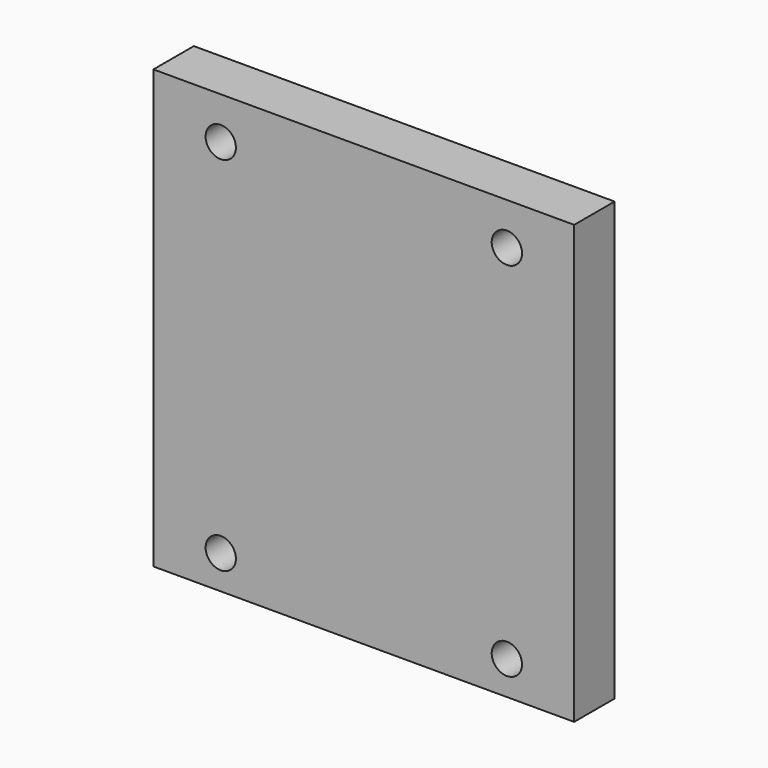
from build123d import *

# Parameters (mm, degrees)
CYLINDER107_R          = 1.8
CYLINDER107_DEPTH      = 34
CYLINDER107_ROLL_ANGLE = 90
CYLINDER106_R          = 1.8
CYLINDER106_DEPTH      = 34
CYLINDER106_ROLL_ANGLE = 90
CYLINDER109_R          = 1.8
CYLINDER109_DEPTH      = 34
CYLINDER109_ROLL_ANGLE = 90
CYLINDER108_R          = 1.8
CYLINDER108_DEPTH      = 34
CYLINDER108_ROLL_ANGLE = 90
BOX054_W               = 50
BOX054_H               = 6
BOX054_DEPTH           = 52


with BuildPart() as cilindro063:
    # Cylinder107 → Cylinder107 (new body)
    with BuildSketch(Plane.XY):
        Circle(CYLINDER107_R)
    extrude(amount=CYLINDER107_DEPTH)


with BuildPart() as cilindro063_1:
    # Cylinder107 roll: moved
    add(cilindro063.part.rotate(Axis((0, 0, 0), (1, 0, 0)), CYLINDER107_ROLL_ANGLE))


with BuildPart() as cilindro063_2:
    # Cylinder107 placement: moved
    add(cilindro063_1.part.moved(Location((16, -10, 63))))


with BuildPart() as fusion059:
    # Cylinder106 → Cylinder106 (new body)
    with BuildSketch(Plane.XY):
        Circle(CYLINDER106_R)
    extrude(amount=CYLINDER106_DEPTH)


with BuildPart() as fusion059_1:
    # Cylinder106 roll: moved
    add(fusion059.part.rotate(Axis((0, 0, 0), (1, 0, 0)), CYLINDER106_ROLL_ANGLE))


with BuildPart() as fusion059_2:
    # Cylinder106 placement: moved
    add(fusion059_1.part.moved(Location((50, -10, 63))))

    # Fusion059: union Cilindro063
    add(cilindro063_2.part)


with BuildPart() as cilindro065:
    # Cylinder109 → Cylinder109 (new body)
    with BuildSketch(Plane.XY):
        Circle(CYLINDER109_R)
    extrude(amount=CYLINDER109_DEPTH)


with BuildPart() as cilindro065_1:
    # Cylinder109 roll: moved
    add(cilindro065.part.rotate(Axis((0, 0, 0), (1, 0, 0)), CYLINDER109_ROLL_ANGLE))


with BuildPart() as cilindro065_2:
    # Cylinder109 placement: moved
    add(cilindro065_1.part.moved(Location((16, -10, 63))))


with BuildPart() as fusion061:
    # Cylinder108 → Cylinder108 (new body)
    with BuildSketch(Plane.XY):
        Circle(CYLINDER108_R)
    extrude(amount=CYLINDER108_DEPTH)


with BuildPart() as fusion061_1:
    # Cylinder108 roll: moved
    add(fusion061.part.rotate(Axis((0, 0, 0), (1, 0, 0)), CYLINDER108_ROLL_ANGLE))


with BuildPart() as fusion061_2:
    # Cylinder108 placement: moved
    add(fusion061_1.part.moved(Location((50, -10, 63))))

    # Fusion060: union Cilindro065
    add(cilindro065_2.part)


with BuildPart() as fusion061_3:
    # Fusion060 placement: moved
    add(fusion061_2.part.moved(Location((0, 0, 43))))

    # Fusion061: union Fusion059
    add(fusion059_2.part)


with BuildPart() as obj1:
    # Box054 → Box054 (new body)
    with BuildSketch(Plane(origin=(8, -23, 59), x_dir=(1, 0, 0), z_dir=(0, 0, 1))):
        with Locations((25, 3)):
            Rectangle(BOX054_W, BOX054_H)
    extrude(amount=BOX054_DEPTH)

    # Cut126: cut Fusion061
    add(fusion061_3.part, mode=Mode.SUBTRACT)


solid = obj1.part
